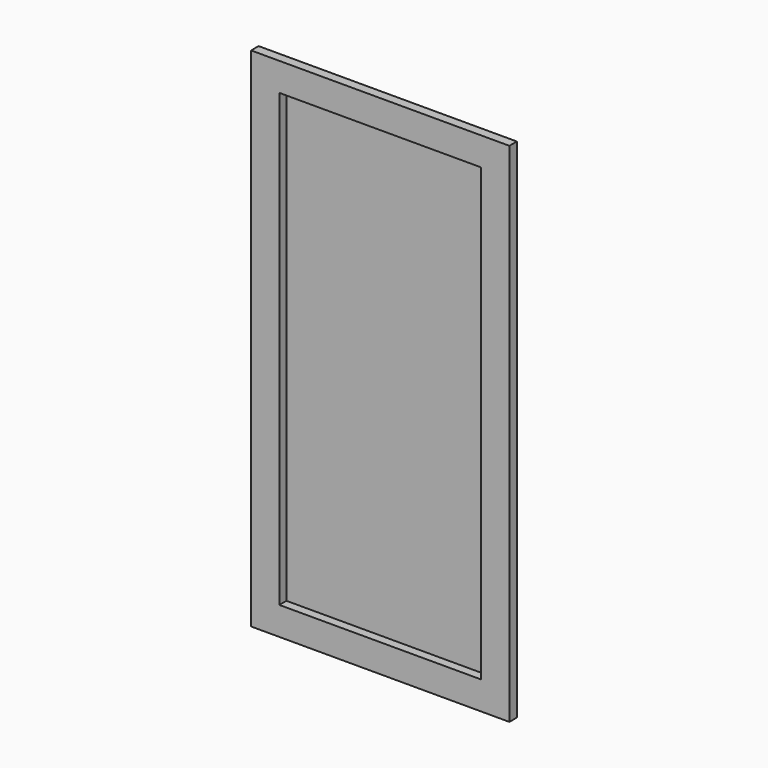
from build123d import *

# Parameters (mm, degrees)
F0_W     = 550
F0_H     = 1080
F0_W_2   = 430
F0_H_2   = 960
F1_DEPTH = 20
F2_DEPTH = 1


with BuildPart() as f1:
    # F0 (on Front) → F1 (new body)
    with BuildSketch(Plane.XZ):
        with Locations((275, 540)):
            Rectangle(F0_W, F0_H)
        with Locations((275, 540)):
            Rectangle(F0_W_2, F0_H_2, mode=Mode.SUBTRACT)
    extrude(amount=F1_DEPTH)


with BuildPart() as f2:
    # F0 (on Front) → F2 (new body)
    with BuildSketch(Plane.XZ):
        with Locations((275, 540)):
            Rectangle(F0_W_2, F0_H_2)
    extrude(amount=F2_DEPTH)


solid = Compound([f1.part, f2.part])
